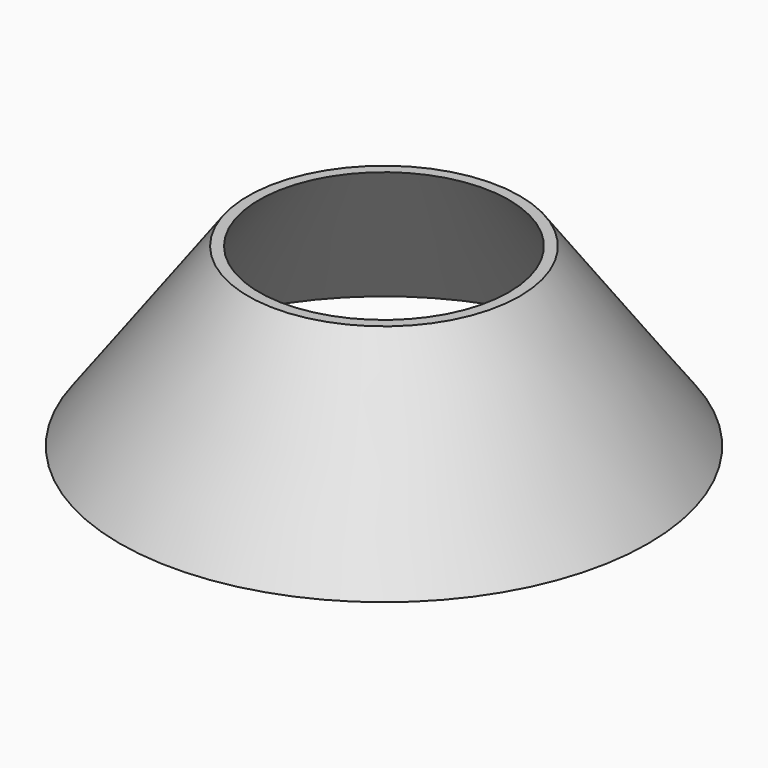
from build123d import *

# Parameters (mm, degrees)
F2_T = -2.54


with BuildPart() as f1:
    # F0 (on Front) → F1 (revolve)
    with BuildSketch(Plane.XZ):
        Polygon((0, 50.8), (0, 0), (76.2, 0), (39.1922, 50.8), align=None)
    revolve(axis=Axis((0, 0, 25.4), (0, 0, 1)))

    # F2
    f2_openings = [f1.faces().sort_by_distance(p)[0] for p in [
        (0, 0, 0),
        (0, 0, 50.8),
    ]]
    offset(amount=F2_T, openings=f2_openings)


solid = f1.part
